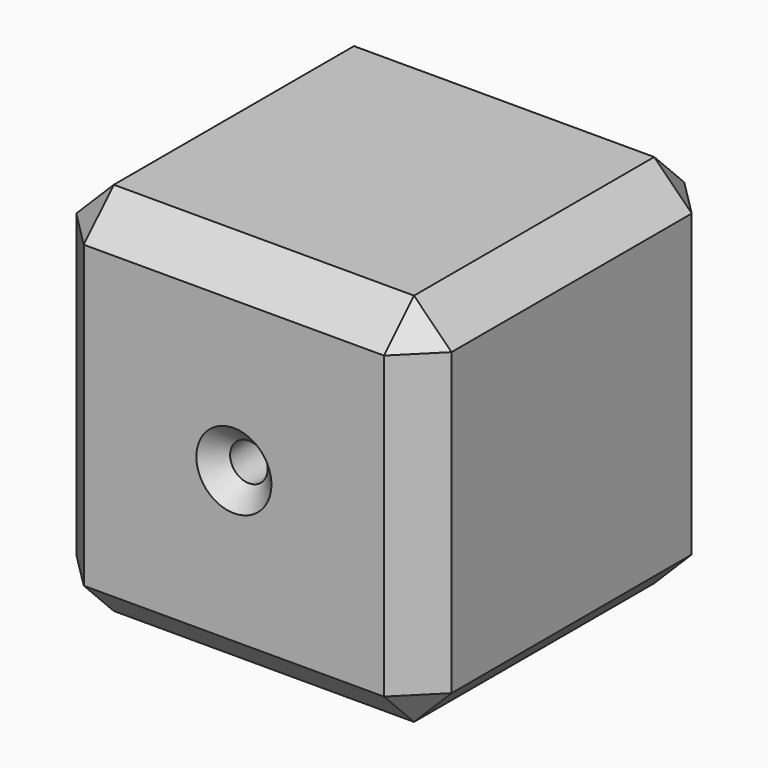
from build123d import *

# Parameters (mm, degrees)
F0_W           = 50
F0_H           = 50
F1_DEPTH       = 50
F2_SIZE        = 5
F4_D           = 5
F4_CSINK_D     = 10
F4_CSINK_ANGLE = 90


with BuildPart() as f1:
    # F0 (on Front) → F1 (new body)
    with BuildSketch(Plane.XZ):
        Rectangle(F0_W, F0_H)
    extrude(amount=F1_DEPTH)

    # F2
    f2_edges = [f1.edges().sort_by_distance(p)[0] for p in [
        (-25, -25, 25),
        (25, -25, 25),
        (0, -50, 25),
        (0, 0, 25),
        (-25, -50, 0),
        (25, -50, 0),
        (0, -50, -25),
        (-25, -25, -25),
        (-25, 0, 0),
        (0, 0, -25),
        (25, 0, 0),
        (25, -25, -25),
    ]]
    chamfer(f2_edges, length=F2_SIZE)

    # F4 (through all)
    with Locations(Plane.XZ.offset(50)):
        with Locations((0, 0)):
            CounterSinkHole(F4_D / 2, F4_CSINK_D / 2, counter_sink_angle=F4_CSINK_ANGLE)


solid = f1.part
